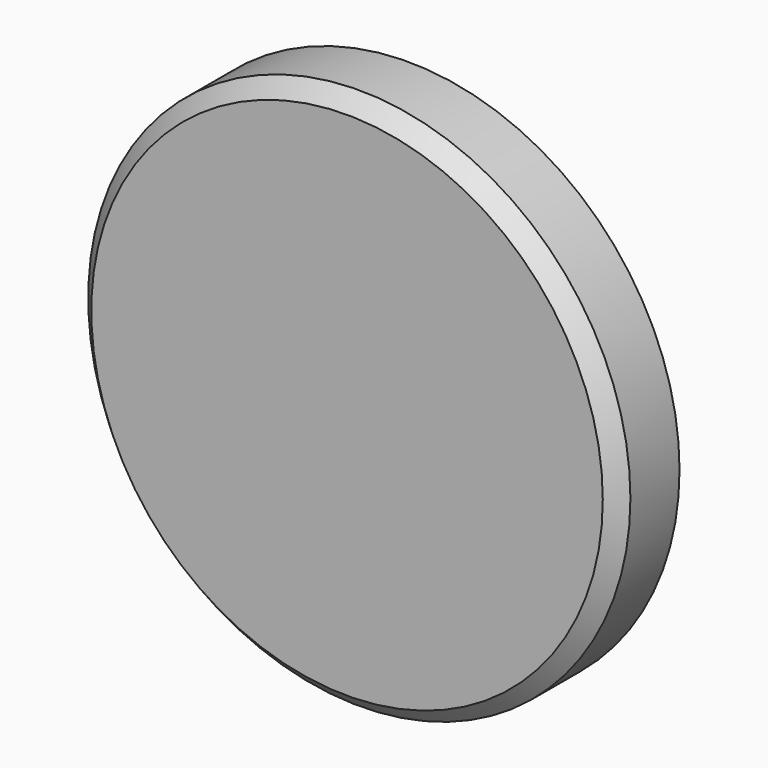
from build123d import *

# Parameters (mm, degrees)
F0_R     = 89.735098
F1_DEPTH = 12.7
F2_SIZE  = 5.08


with BuildPart() as f1:
    # F0 (on Front) → F1 (new body, symmetric)
    with BuildSketch(Plane.XZ):
        with Locations((-57.850629, 68.899311)):
            Circle(F0_R)
    extrude(amount=F1_DEPTH, both=True)

    # F2
    f2_edges = [f1.edges().sort_by_distance(p)[0] for p in [
        (-147.585727, -12.7, 68.899311),
    ]]
    chamfer(f2_edges, length=F2_SIZE)


solid = f1.part
